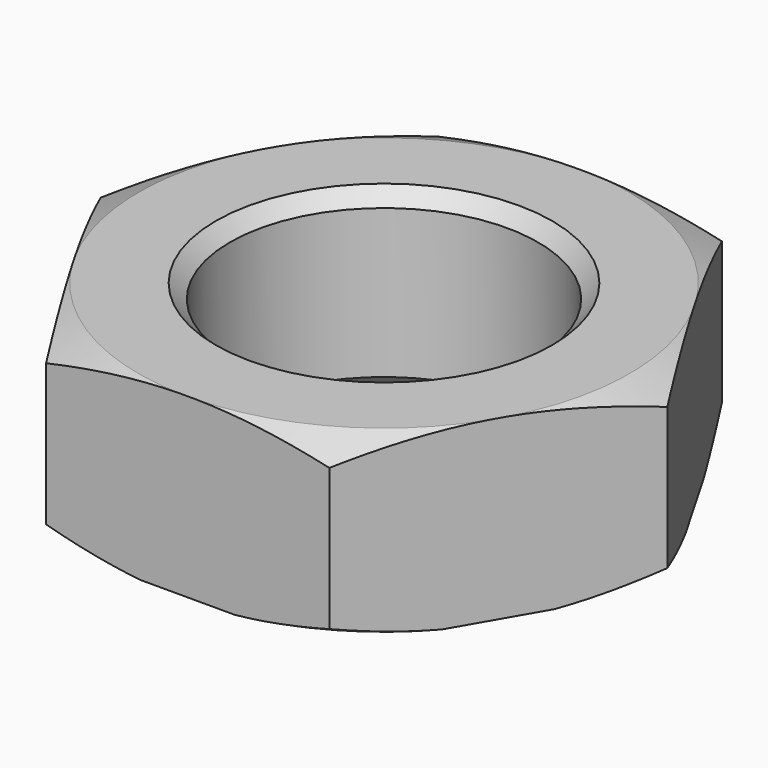
from build123d import *

# Parameters (mm, degrees)
F1_DEPTH = 25
F2_R     = 21.75
F3_DEPTH = 25.001
F4_SIZE  = 2


with BuildPart() as f1:
    # F0 (on Top) → F1 (new body)
    with BuildSketch(Plane.XY):
        Polygon((20, 34.641016), (-20, 34.641016), (-40, 0), (-20, -34.641016), (20, -34.641016), (40, 0), align=None)
    extrude(amount=F1_DEPTH)

    # F2 (on face) → F3 (cut, through all)
    with BuildSketch(Plane.XY.offset(25)):
        Circle(F2_R)
    extrude(amount=-F3_DEPTH, mode=Mode.SUBTRACT)

    # F4
    f4_edges = [f1.edges().sort_by_distance(p)[0] for p in [
        (-21.75, 0, 0),
        (-21.75, 0, 25),
    ]]
    chamfer(f4_edges, length=F4_SIZE)

    # F5 (on Front) → F6 (revolve, cut)
    with BuildSketch(Plane.XZ):
        Polygon((42.406738, 25.509455), (33.521101, 25.509455), (42.406738, 21.53198), align=None)
        Polygon((42.136625, 3.734692), (33.521101, -0.952422), (42.136625, -0.952422), align=None)
    revolve(axis=Axis((0, 0, 7.913062), (0, 0, -1)), mode=Mode.SUBTRACT)


solid = f1.part
